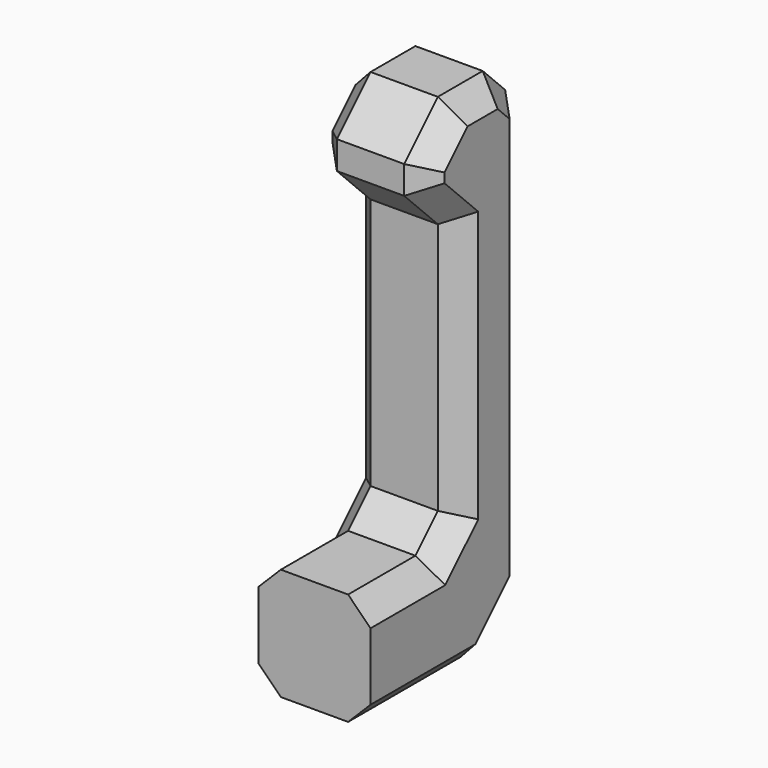
from build123d import *

# Parameters (mm, degrees)
BOX002_W        = 2
BOX002_H        = 1.5
BOX002_DEPTH    = 2
CHAMFER003_SIZE = 0.75
BOX_W           = 2
BOX_H           = 3.5
BOX_DEPTH       = 2
BOX001_W        = 2
BOX001_H        = 1.5
BOX001_DEPTH    = 9
CHAMFER004_SIZE = 0.5
CHAMFER005_SIZE = 1
CHAMFER006_SIZE = 0.5
CHAMFER007_SIZE = 0.4


with BuildPart() as chamfer003:
    # Box002 → Box002 (new body)
    with BuildSketch(Plane(origin=(-1, 18.25, 7), x_dir=(1, 0, 0), z_dir=(0, 0, 1))):
        with Locations((1, 0.75)):
            Rectangle(BOX002_W, BOX002_H)
    extrude(amount=BOX002_DEPTH)

    # Chamfer003
    chamfer003_edges = [chamfer003.edges().sort_by_distance(p)[0] for p in [
        (0, 18.25, 7),
        (0, 18.25, 9),
    ]]
    chamfer(chamfer003_edges, length=CHAMFER003_SIZE)


with BuildPart() as cube:
    # Box → Box (new body)
    with BuildSketch(Plane(origin=(-1, 17, 0), x_dir=(1, 0, 0), z_dir=(0, 0, 1))):
        with Locations((1, 1.75)):
            Rectangle(BOX_W, BOX_H)
    extrude(amount=BOX_DEPTH)


with BuildPart() as chamfer007:
    # Box001 → Box001 (new body)
    with BuildSketch(Plane(origin=(-1, 19, 0), x_dir=(1, 0, 0), z_dir=(0, 0, 1))):
        with Locations((1, 0.75)):
            Rectangle(BOX001_W, BOX001_H)
    extrude(amount=BOX001_DEPTH)

    # Chamfer004
    chamfer004_edges = [chamfer007.edges().sort_by_distance(p)[0] for p in [
        (0, 20.5, 9),
    ]]
    chamfer(chamfer004_edges, length=CHAMFER004_SIZE)

    # Fusion: union Chamfer003, Cube
    add(chamfer003.part)
    add(cube.part)

    # Chamfer005
    chamfer005_edges = [chamfer007.edges().sort_by_distance(p)[0] for p in [
        (0, 20.5, 0),
    ]]
    chamfer(chamfer005_edges, length=CHAMFER005_SIZE)

    # Chamfer006
    chamfer006_edges = [chamfer007.edges().sort_by_distance(p)[0] for p in [
        (0, 19, 2),
    ]]
    chamfer(chamfer006_edges, length=CHAMFER006_SIZE)

    # Chamfer007
    chamfer007_edges = [chamfer007.edges().sort_by_distance(p)[0] for p in [
        (-1, 17.75, 2),
        (-1, 18.75, 2.25),
        (-1, 19, 4.75),
        (-1, 18.625, 7.375),
        (-1, 18.25, 8),
        (-1, 18.625, 8.625),
        (-1, 19.5, 9),
        (-1, 20.25, 8.75),
        (-1, 20.5, 4.75),
        (-1, 20, 0.5),
        (-1, 18.25, 0),
        (1, 17.75, 2),
        (1, 18.75, 2.25),
        (1, 19, 4.75),
        (1, 18.25, 0),
        (1, 18.625, 7.375),
        (1, 20, 0.5),
        (1, 18.25, 8),
        (1, 20.5, 4.75),
        (1, 18.625, 8.625),
        (1, 20.25, 8.75),
        (1, 19.5, 9),
    ]]
    chamfer(chamfer007_edges, length=CHAMFER007_SIZE)


solid = chamfer007.part
